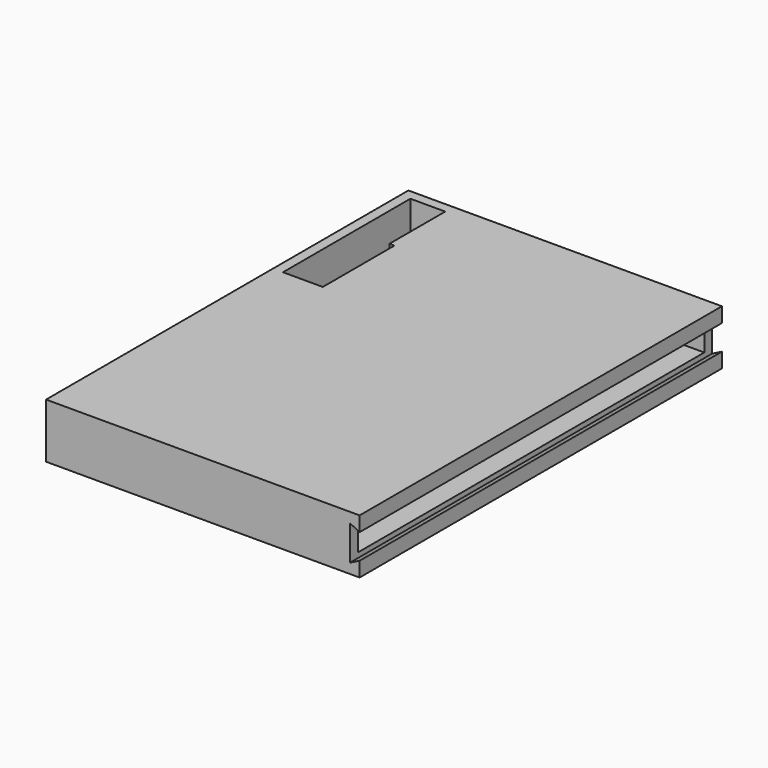
from build123d import *

# Parameters (mm, degrees)
BOX023_W     = 8
BOX023_H     = 18
BOX023_DEPTH = 9
BOX022_W     = 7
BOX022_H     = 14
BOX022_DEPTH = 8
PAD001_DEPTH = 91
BOX001_W     = 54
BOX001_H     = 87
BOX001_DEPTH = 5
BOX004_W     = 63
BOX004_H     = 91
BOX004_DEPTH = 11


with BuildPart() as cube021:
    # Box023 → Box023 (new body)
    with BuildSketch(Plane(origin=(-23, 18, -11), x_dir=(1, 0, 0), z_dir=(0, 0, 1))):
        with Locations((4, 9)):
            Rectangle(BOX023_W, BOX023_H)
    extrude(amount=BOX023_DEPTH)


with BuildPart() as batterycablehole:
    # Box022 → Box022 (new body)
    with BuildSketch(Plane(origin=(-23, 36, -11), x_dir=(1, 0, 0), z_dir=(0, 0, 1))):
        with Locations((3.5, 7)):
            Rectangle(BOX022_W, BOX022_H)
    extrude(amount=BOX022_DEPTH)

    # Fusion008: union Cube021
    add(cube021.part)


with BuildPart() as batterysliderhole:
    # Sketch001 → Pad001 (new body)
    with BuildSketch(Plane(origin=(46.6, 52, -18.45), x_dir=(-1, 0, 0), z_dir=(0, -1, 0))):
        Polygon((10.546235, -6.448812), (10.546235, -13.448812), (8.546235, -12.448812), (8.546235, -7.448812), align=None)
    extrude(amount=PAD001_DEPTH)


with BuildPart() as batteryhole:
    # Box001 → Box001 (new body)
    with BuildSketch(Plane(origin=(-16, -37, -11), x_dir=(1, 0, 0), z_dir=(0, 0, 1))):
        with Locations((27, 43.5)):
            Rectangle(BOX001_W, BOX001_H)
    extrude(amount=BOX001_DEPTH)


with BuildPart() as cut013:
    # Box004 → Box004 (new body)
    with BuildSketch(Plane(origin=(-25, -39, -14), x_dir=(1, 0, 0), z_dir=(0, 0, 1))):
        with Locations((31.5, 45.5)):
            Rectangle(BOX004_W, BOX004_H)
    extrude(amount=BOX004_DEPTH)

    # Cut004: cut batteryHole
    add(batteryhole.part, mode=Mode.SUBTRACT)

    # Cut012: cut batterySliderHole
    add(batterysliderhole.part, mode=Mode.SUBTRACT)

    # Cut013: cut batteryCableHole
    add(batterycablehole.part, mode=Mode.SUBTRACT)


solid = cut013.part
